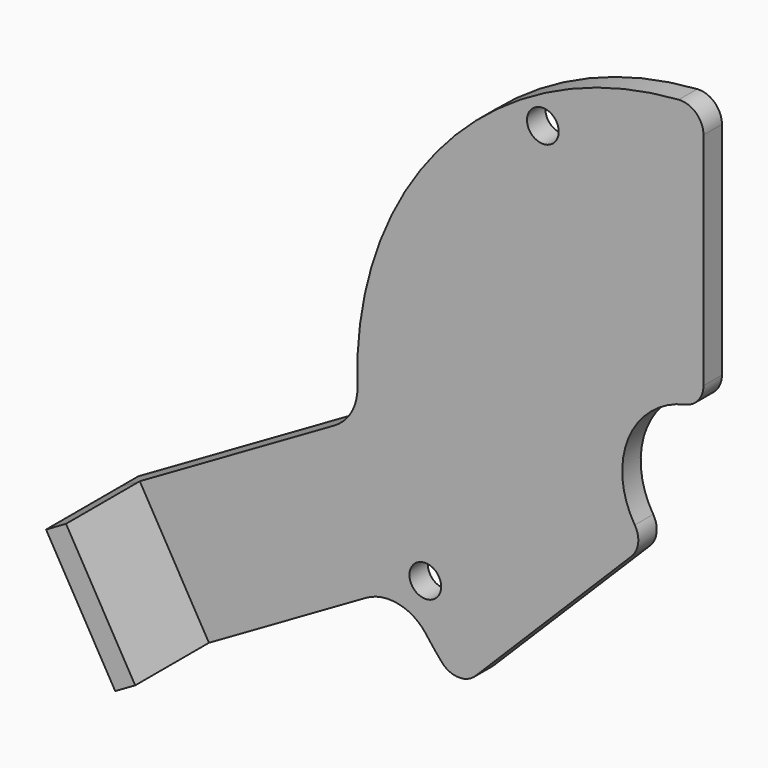
from build123d import *

# Parameters (mm, degrees)
F1_DEPTH = 6.35
F3_D     = 8.7376
F5_DEPTH = 25.4
F6_R     = 12.7
F7_R     = 6.35


with BuildPart() as f1:
    # F0 (on Front) → F1 (new body)
    with BuildSketch(Plane.XZ):
        with BuildLine():
            Line((-141.7374620444, -81.8321618656), (-82.620901982, -47.7012))
            ThreePointArc((-82.620901982, -47.7012), (-75.6878127118, -58.0773013549), (-67.4596839815, -67.4596839815))
            Line((-67.4596839815, -67.4596839815), (-15.8232112853, -15.8232112853))
            ThreePointArc((-15.8232112853, -15.8232112853), (-20.6740218508, 8.5634602394), (0, 22.3774))
            Line((0, 22.3774), (0, 95.4024))
            ThreePointArc((0, 95.4024), (-71.1544614181, 63.5504566943), (-94.7963262761, -10.7365939814))
            Line((-94.7963262761, -10.7365939814), (-160.7874620444, -48.8365939814))
            Line((-160.7874620444, -48.8365939814), (-141.7374620444, -81.8321618656))
        make_face()
    extrude(amount=F1_DEPTH)

    # F3 (through all)
    with Locations(Plane.XZ.offset(6.35)):
        with Locations((-44.2468, 76.6377056723), (-76.6377056723, -44.2468)):
            Hole(F3_D / 2)

    # F4 (on face) → F5 (join)
    with BuildSketch(Plane.XZ.offset(6.35)):
        Polygon((-136.2382007304, -78.6571618656), (-155.2882007304, -45.6615939814), (-160.7874620444, -48.8365939814), (-141.7374620444, -81.8321618656), align=None)
    extrude(amount=F5_DEPTH)

    # F6
    f6_edges = [f1.edges().sort_by_distance(p)[0] for p in [
        (-82.620902, -3.175, -47.7012),
        (-94.796326, -3.175, -10.736594),
    ]]
    fillet(f6_edges, radius=F6_R)

    # F7
    f7_edges = [f1.edges().sort_by_distance(p)[0] for p in [
        (-67.459684, -3.175, -67.459684),
        (-15.823211, -3.175, -15.823211),
        (0, -3.175, 22.3774),
        (0, -3.175, 95.4024),
    ]]
    fillet(f7_edges, radius=F7_R)


solid = f1.part
